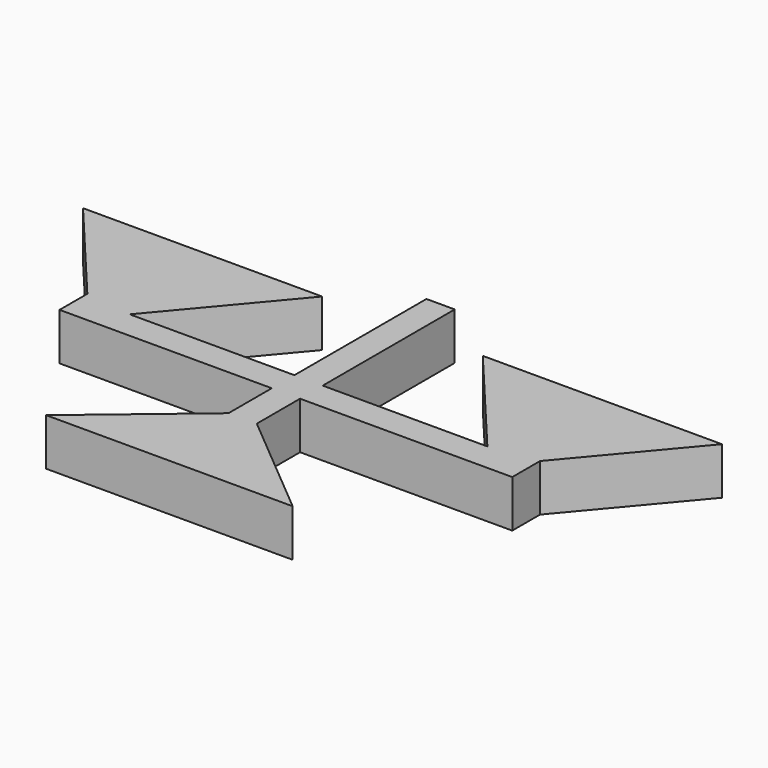
from build123d import *

# Parameters (mm, degrees)
F1_DEPTH = 2


with BuildPart() as f1:
    # F0 (on Top) → F1 (new body)
    with BuildSketch(Plane.XY):
        Polygon((-9.6, 0.072794), (-9.6, -1.4), (-0.6, -1.4), (-0.6, -3.693262), (-5.229793, -7.578119), (0, -7.578119), (5.229793, -7.578119), (0.6, -3.693262), (0.6, -1.4), (9.6, -1.4), (9.6, 0.072794), (13.549218, 4.779289), (3.407021, 4.779289), (7.58514, -0.2), (0.6, -0.2), (0.6, 6.8), (0, 6.8), (-0.6, 6.8), (-0.6, -0.2), (-7.58514, -0.2), (-3.407021, 4.779289), (-13.549218, 4.779289), align=None)
    extrude(amount=F1_DEPTH)


solid = f1.part
